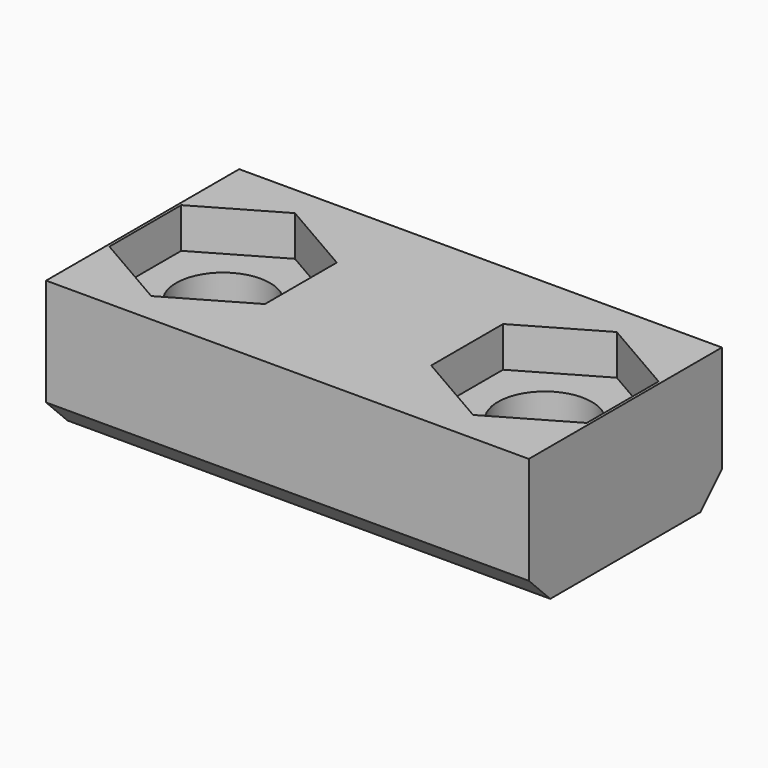
from build123d import *

# Parameters (mm, degrees)
F0_W     = 18
F0_H     = 9
F0_R     = 1.75
F1_DEPTH = 5
F2_R     = 1.75
F3_DEPTH = 1.5
F4_SIZE  = 1


with BuildPart() as f1:
    # F0 (on Top) → F1 (new body)
    with BuildSketch(Plane.XY):
        Rectangle(F0_W, F0_H)
        with Locations((-6, 0)):
            Circle(F0_R, mode=Mode.SUBTRACT)
        with Locations((6, 0)):
            Circle(F0_R, mode=Mode.SUBTRACT)
    extrude(amount=F1_DEPTH)

    # F2 (on face) → F3 (cut)
    with BuildSketch(Plane.XY.offset(5)):
        Polygon((-8.9, 1.674316), (-8.9, -1.674316), (-6, -3.348632), (-3.1, -1.674316), (-3.1, 1.674316), (-6, 3.348632), align=None)
        with Locations((-6, 0)):
            Circle(F2_R, mode=Mode.SUBTRACT)
        Polygon((3.1, 1.674316), (3.1, -1.674316), (6, -3.348632), (8.9, -1.674316), (8.9, 1.674316), (6, 3.348632), align=None)
        with Locations((6, 0)):
            Circle(F2_R, mode=Mode.SUBTRACT)
    extrude(amount=-F3_DEPTH, mode=Mode.SUBTRACT)

    # F4
    f4_edges = [f1.edges().sort_by_distance(p)[0] for p in [
        (0, -4.5, 0),
        (0, 4.5, 0),
    ]]
    chamfer(f4_edges, length=F4_SIZE)


solid = f1.part
